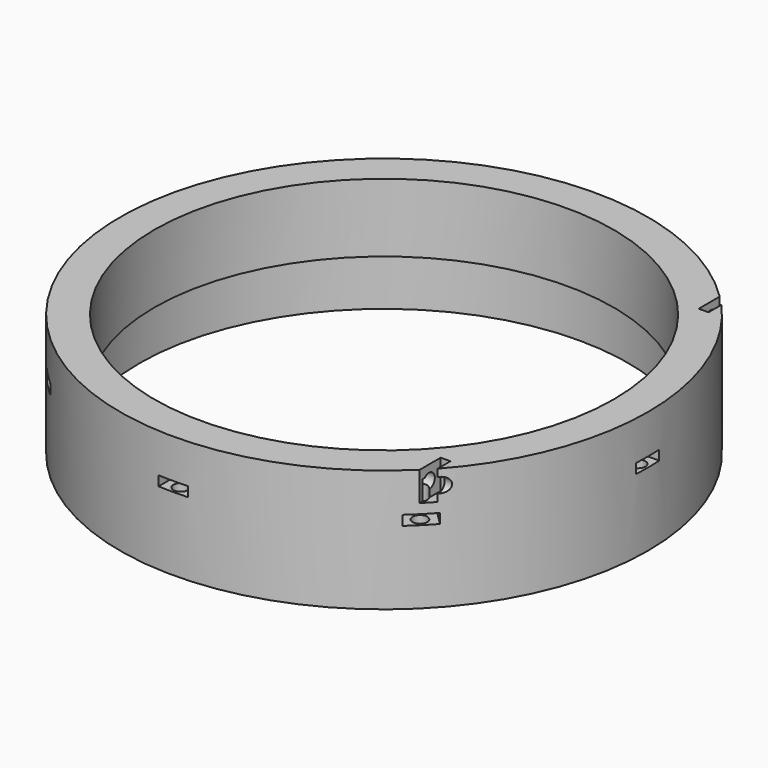
from build123d import *

# Parameters (mm, degrees)
CYLINDER1189_R               = 1.5
CYLINDER1189_DEPTH           = 100
CYLINDER1190_R               = 1.5
CYLINDER1190_DEPTH           = 100
CYLINDER1187_R               = 1.5
CYLINDER1187_DEPTH           = 100
CYLINDER1188_R               = 1.5
CYLINDER1188_DEPTH           = 100
BOX491_W                     = 2
BOX491_H                     = 6
BOX491_DEPTH                 = 6
BOX492_W                     = 2
BOX492_H                     = 6
BOX492_DEPTH                 = 6
BOX493_W                     = 2
BOX493_H                     = 6
BOX493_DEPTH                 = 6
BOX490_W                     = 2
BOX490_H                     = 6
BOX490_DEPTH                 = 6
BOX460_W                     = 8
BOX460_H                     = 6
BOX460_DEPTH                 = 2
BOX460_PLACEMENT_ANGLE       = 45
BOX461_W                     = 8
BOX461_H                     = 6
BOX461_DEPTH                 = 2
BOX462_W                     = 8
BOX462_H                     = 6
BOX462_DEPTH                 = 2
BOX462_PLACEMENT_ANGLE       = 135
BOX463_W                     = 8
BOX463_H                     = 6
BOX463_DEPTH                 = 2
BOX464_W                     = 8
BOX464_H                     = 6
BOX464_DEPTH                 = 2
BOX464_PLACEMENT_ANGLE       = 225
BOX465_W                     = 8
BOX465_H                     = 6
BOX465_DEPTH                 = 2
BOX466_W                     = 8
BOX466_H                     = 6
BOX466_DEPTH                 = 2
BOX466_PLACEMENT_ANGLE       = 45
BOX459_W                     = 8
BOX459_H                     = 6
BOX459_DEPTH                 = 2
CYLINDER1161_R               = 1.5
CYLINDER1161_DEPTH           = 50
CYLINDER1161_PLACEMENT_ANGLE = 45
CYLINDER1162_R               = 1.5
CYLINDER1162_DEPTH           = 50
CYLINDER1163_R               = 1.5
CYLINDER1163_DEPTH           = 50
CYLINDER1163_PLACEMENT_ANGLE = 135
CYLINDER1164_R               = 1.5
CYLINDER1164_DEPTH           = 50
CYLINDER1165_R               = 1.5
CYLINDER1165_DEPTH           = 50
CYLINDER1165_PLACEMENT_ANGLE = 225
CYLINDER1166_R               = 1.5
CYLINDER1166_DEPTH           = 50
CYLINDER1167_R               = 1.5
CYLINDER1167_DEPTH           = 50
CYLINDER1167_PLACEMENT_ANGLE = 45
CYLINDER1160_R               = 1.5
CYLINDER1160_DEPTH           = 50
TUBE109_R                    = 50
TUBE109_R_2                  = 40
TUBE109_DEPTH                = 11
TUBE107_R                    = 54
TUBE107_R_2                  = 47
TUBE107_DEPTH                = 25


with BuildPart() as obj1:
    # Cylinder1189 → Cylinder1189 (new body)
    with BuildSketch(Plane(origin=(24, -51, 27), x_dir=(0, 0, -1), z_dir=(1, 0, 0))):
        Circle(CYLINDER1189_R)
    extrude(amount=CYLINDER1189_DEPTH)


with BuildPart() as obj2:
    # Cylinder1190 → Cylinder1190 (new body)
    with BuildSketch(Plane(origin=(34, 36, 42), x_dir=(0, 0, -1), z_dir=(1, 0, 0))):
        Circle(CYLINDER1190_R)
    extrude(amount=CYLINDER1190_DEPTH)


with BuildPart() as obj3:
    # Cylinder1187 → Cylinder1187 (new body)
    with BuildSketch(Plane(origin=(34, -36, 42), x_dir=(0, 0, -1), z_dir=(1, 0, 0))):
        Circle(CYLINDER1187_R)
    extrude(amount=CYLINDER1187_DEPTH)


with BuildPart() as compound890:
    # Cylinder1188 → Cylinder1188 (new body)
    with BuildSketch(Plane(origin=(24, 51, 27), x_dir=(0, 0, -1), z_dir=(1, 0, 0))):
        Circle(CYLINDER1188_R)
    extrude(amount=CYLINDER1188_DEPTH)

    # Compound890: union obj1, obj2, obj3
    add(obj1.part)
    add(obj2.part)
    add(obj3.part)


with BuildPart() as krychle491:
    # Box491 → Box491 (new body)
    with BuildSketch(Plane(origin=(32, -54, 24), x_dir=(1, 0, 0), z_dir=(0, 0, 1))):
        with Locations((1, 3)):
            Rectangle(BOX491_W, BOX491_H)
    extrude(amount=BOX491_DEPTH)


with BuildPart() as krychle492:
    # Box492 → Box492 (new body)
    with BuildSketch(Plane(origin=(38, 33, 39), x_dir=(1, 0, 0), z_dir=(0, 0, 1))):
        with Locations((1, 3)):
            Rectangle(BOX492_W, BOX492_H)
    extrude(amount=BOX492_DEPTH)


with BuildPart() as krychle493:
    # Box493 → Box493 (new body)
    with BuildSketch(Plane(origin=(38, -39, 39), x_dir=(1, 0, 0), z_dir=(0, 0, 1))):
        with Locations((1, 3)):
            Rectangle(BOX493_W, BOX493_H)
    extrude(amount=BOX493_DEPTH)


with BuildPart() as compound888:
    # Box490 → Box490 (new body)
    with BuildSketch(Plane(origin=(32, 48, 24), x_dir=(1, 0, 0), z_dir=(0, 0, 1))):
        with Locations((1, 3)):
            Rectangle(BOX490_W, BOX490_H)
    extrude(amount=BOX490_DEPTH)

    # Compound888: union Krychle491, Krychle492, Krychle493
    add(krychle491.part)
    add(krychle492.part)
    add(krychle493.part)


with BuildPart() as krychle460:
    # Box460 → Box460 (new body)
    with BuildSketch(Plane.XY):
        with Locations((4, 3)):
            Rectangle(BOX460_W, BOX460_H)
    extrude(amount=BOX460_DEPTH)


with BuildPart() as krychle460_1:
    # Box460 placement: moved
    add(krychle460.part.moved(Location((35.355339, 31.112698, 34))).rotate(Axis((35.355339, 31.112698, 34), (0, 0, 1)), BOX460_PLACEMENT_ANGLE))


with BuildPart() as krychle461:
    # Box461 → Box461 (new body)
    with BuildSketch(Plane(origin=(3, 47, 34), x_dir=(0, 1, 0), z_dir=(0, 0, 1))):
        with Locations((4, 3)):
            Rectangle(BOX461_W, BOX461_H)
    extrude(amount=BOX461_DEPTH)


with BuildPart() as krychle462:
    # Box462 → Box462 (new body)
    with BuildSketch(Plane.XY):
        with Locations((4, 3)):
            Rectangle(BOX462_W, BOX462_H)
    extrude(amount=BOX462_DEPTH)


with BuildPart() as krychle462_1:
    # Box462 placement: moved
    add(krychle462.part.moved(Location((-31.112698, 35.355339, 34))).rotate(Axis((-31.112698, 35.355339, 34), (0, 0, 1)), BOX462_PLACEMENT_ANGLE))


with BuildPart() as krychle463:
    # Box463 → Box463 (new body)
    with BuildSketch(Plane(origin=(-47, 3, 34), x_dir=(-1, 0, 0), z_dir=(0, 0, 1))):
        with Locations((4, 3)):
            Rectangle(BOX463_W, BOX463_H)
    extrude(amount=BOX463_DEPTH)


with BuildPart() as krychle464:
    # Box464 → Box464 (new body)
    with BuildSketch(Plane.XY):
        with Locations((4, 3)):
            Rectangle(BOX464_W, BOX464_H)
    extrude(amount=BOX464_DEPTH)


with BuildPart() as krychle464_1:
    # Box464 placement: moved
    add(krychle464.part.moved(Location((-35.355339, -31.112698, 34))).rotate(Axis((-35.355339, -31.112698, 34), (0, 0, 1)), BOX464_PLACEMENT_ANGLE))


with BuildPart() as krychle465:
    # Box465 → Box465 (new body)
    with BuildSketch(Plane(origin=(-3, -47, 34), x_dir=(0, -1, 0), z_dir=(0, 0, 1))):
        with Locations((4, 3)):
            Rectangle(BOX465_W, BOX465_H)
    extrude(amount=BOX465_DEPTH)


with BuildPart() as krychle466:
    # Box466 → Box466 (new body)
    with BuildSketch(Plane.XY):
        with Locations((4, 3)):
            Rectangle(BOX466_W, BOX466_H)
    extrude(amount=BOX466_DEPTH)


with BuildPart() as krychle466_1:
    # Box466 placement: moved
    add(krychle466.part.moved(Location((31.112698, -35.355339, 34))).rotate(Axis((31.112698, -35.355339, 34), (0, 0, -1)), BOX466_PLACEMENT_ANGLE))


with BuildPart() as compound881:
    # Box459 → Box459 (new body)
    with BuildSketch(Plane(origin=(47, -3, 34), x_dir=(1, 0, 0), z_dir=(0, 0, 1))):
        with Locations((4, 3)):
            Rectangle(BOX459_W, BOX459_H)
    extrude(amount=BOX459_DEPTH)

    # Compound881: union Krychle460, Krychle461, Krychle462, Krychle463, Krychle464, Krychle465, Krychle466
    add(krychle460_1.part)
    add(krychle461.part)
    add(krychle462_1.part)
    add(krychle463.part)
    add(krychle464_1.part)
    add(krychle465.part)
    add(krychle466_1.part)


with BuildPart() as compound881_1:
    # Compound881 placement: moved
    add(compound881.part.moved(Location((0, 0, 1))))


with BuildPart() as obj4:
    # Cylinder1161 → Cylinder1161 (new body)
    with BuildSketch(Plane.XY):
        Circle(CYLINDER1161_R)
    extrude(amount=CYLINDER1161_DEPTH)


with BuildPart() as obj4_1:
    # Cylinder1161 placement: moved
    add(obj4.part.moved(Location((36.769553, 36.769553, 0))).rotate(Axis((36.769553, 36.769553, 0), (0, 0, 1)), CYLINDER1161_PLACEMENT_ANGLE))


with BuildPart() as obj5:
    # Cylinder1162 → Cylinder1162 (new body)
    with BuildSketch(Plane(origin=(0, 52, 0), x_dir=(0, 1, 0), z_dir=(0, 0, 1))):
        Circle(CYLINDER1162_R)
    extrude(amount=CYLINDER1162_DEPTH)


with BuildPart() as obj6:
    # Cylinder1163 → Cylinder1163 (new body)
    with BuildSketch(Plane.XY):
        Circle(CYLINDER1163_R)
    extrude(amount=CYLINDER1163_DEPTH)


with BuildPart() as obj6_1:
    # Cylinder1163 placement: moved
    add(obj6.part.moved(Location((-36.769553, 36.769553, 0))).rotate(Axis((-36.769553, 36.769553, 0), (0, 0, 1)), CYLINDER1163_PLACEMENT_ANGLE))


with BuildPart() as obj7:
    # Cylinder1164 → Cylinder1164 (new body)
    with BuildSketch(Plane(origin=(-52, 0, 0), x_dir=(-1, 0, 0), z_dir=(0, 0, 1))):
        Circle(CYLINDER1164_R)
    extrude(amount=CYLINDER1164_DEPTH)


with BuildPart() as obj8:
    # Cylinder1165 → Cylinder1165 (new body)
    with BuildSketch(Plane.XY):
        Circle(CYLINDER1165_R)
    extrude(amount=CYLINDER1165_DEPTH)


with BuildPart() as obj8_1:
    # Cylinder1165 placement: moved
    add(obj8.part.moved(Location((-36.769553, -36.769553, 0))).rotate(Axis((-36.769553, -36.769553, 0), (0, 0, 1)), CYLINDER1165_PLACEMENT_ANGLE))


with BuildPart() as obj9:
    # Cylinder1166 → Cylinder1166 (new body)
    with BuildSketch(Plane(origin=(0, -52, 0), x_dir=(0, -1, 0), z_dir=(0, 0, 1))):
        Circle(CYLINDER1166_R)
    extrude(amount=CYLINDER1166_DEPTH)


with BuildPart() as obj10:
    # Cylinder1167 → Cylinder1167 (new body)
    with BuildSketch(Plane.XY):
        Circle(CYLINDER1167_R)
    extrude(amount=CYLINDER1167_DEPTH)


with BuildPart() as obj10_1:
    # Cylinder1167 placement: moved
    add(obj10.part.moved(Location((36.769553, -36.769553, 0))).rotate(Axis((36.769553, -36.769553, 0), (0, 0, -1)), CYLINDER1167_PLACEMENT_ANGLE))


with BuildPart() as compound879:
    # Cylinder1160 → Cylinder1160 (new body)
    with BuildSketch(Plane(origin=(52, 0, 0), x_dir=(1, 0, 0), z_dir=(0, 0, 1))):
        Circle(CYLINDER1160_R)
    extrude(amount=CYLINDER1160_DEPTH)

    # Compound879: union obj4, obj5, obj6, obj7, obj8, obj9, obj10
    add(obj4_1.part)
    add(obj5.part)
    add(obj6_1.part)
    add(obj7.part)
    add(obj8_1.part)
    add(obj9.part)
    add(obj10_1.part)


with BuildPart() as compound879_1:
    # Compound879 placement: moved
    add(compound879.part.moved(Location((0, 0, -7))))


with BuildPart() as tube109:
    # Tube109 → Tube109 (new body)
    with BuildSketch(Plane.XY.offset(20)):
        Circle(TUBE109_R)
        Circle(TUBE109_R_2, mode=Mode.SUBTRACT)
    extrude(amount=TUBE109_DEPTH)


with BuildPart() as cut444:
    # Tube107 → Tube107 (new body)
    with BuildSketch(Plane.XY.offset(20)):
        Circle(TUBE107_R)
        Circle(TUBE107_R_2, mode=Mode.SUBTRACT)
    extrude(amount=TUBE107_DEPTH)

    # Cut429: cut Tube109
    add(tube109.part, mode=Mode.SUBTRACT)

    # Cut431: cut Compound879
    add(compound879_1.part, mode=Mode.SUBTRACT)

    # Cut432: cut Compound881
    add(compound881_1.part, mode=Mode.SUBTRACT)

    # Cut442: cut Compound888
    add(compound888.part, mode=Mode.SUBTRACT)

    # Cut444: cut Compound890
    add(compound890.part, mode=Mode.SUBTRACT)


solid = cut444.part
